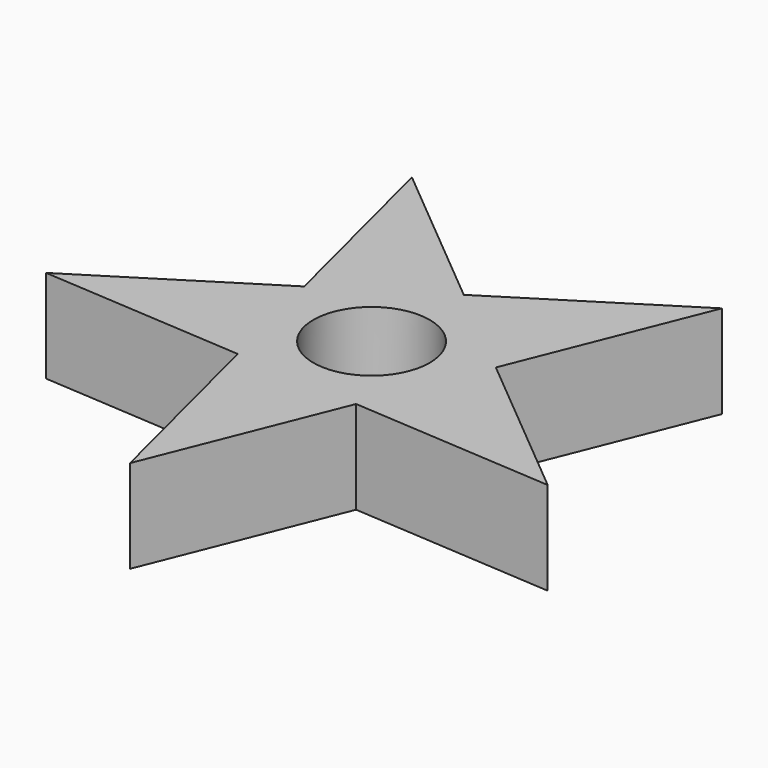
from build123d import *

# Parameters (mm, degrees)
F0_R     = 1.5875
F1_DEPTH = 2.54


with BuildPart() as f1:
    # F0 (on Top) → F1 (new body)
    with BuildSketch(Plane.XY):
        Polygon((0.193984, 2.904109), (-4.0581, 6.449514), (-2.702028, 1.081909), (-7.387874, -1.866473), (-1.863929, -2.235453), (-0.507857, -7.603057), (1.550056, -2.463495), (7.074001, -2.832475), (2.821917, 0.712929), (4.87983, 5.852492), align=None)
        Circle(F0_R, mode=Mode.SUBTRACT)
    extrude(amount=F1_DEPTH)


solid = f1.part
